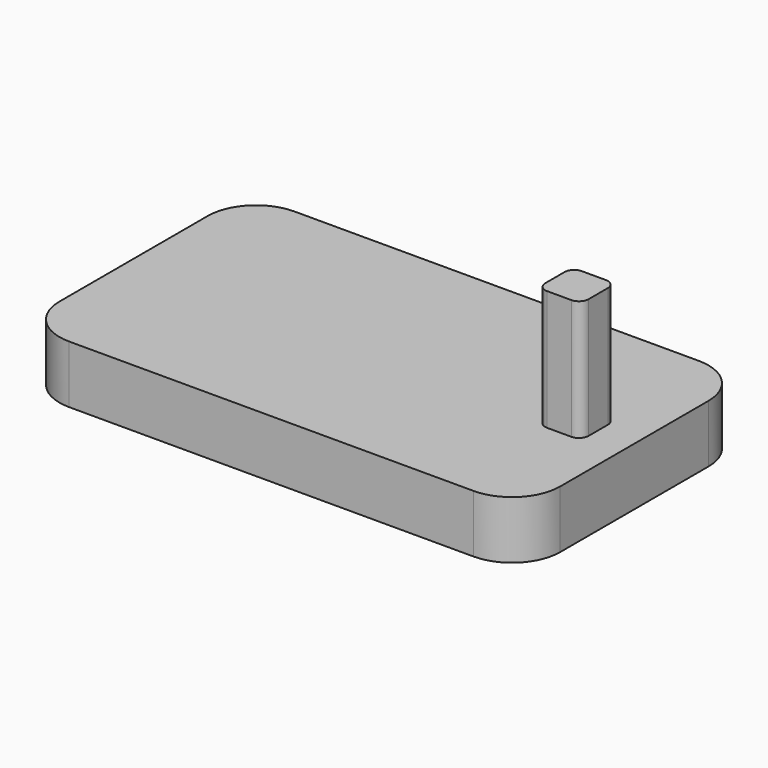
from build123d import *

# Parameters (mm, degrees)
F1_DEPTH = 12
F3_DEPTH = 25


with BuildPart() as f1:
    # F0 (on Top) → F1 (new body)
    with BuildSketch(Plane.XY):
        with BuildLine():
            Line((42, 29.25), (-42, 29.25))
            ThreePointArc((-42, 29.25), (-49.071068, 26.321068), (-52, 19.25))
            Line((-52, 19.25), (-52, -19.25))
            ThreePointArc((-52, -19.25), (-49.071068, -26.321068), (-42, -29.25))
            Line((-42, -29.25), (42, -29.25))
            ThreePointArc((42, -29.25), (49.071068, -26.321068), (52, -19.25))
            Line((52, -19.25), (52, 19.25))
            ThreePointArc((52, 19.25), (49.071068, 26.321068), (42, 29.25))
        make_face()
    extrude(amount=F1_DEPTH)

    # F2 (on face) → F3 (join)
    with BuildSketch(Plane.XY.offset(12)):
        with BuildLine():
            Line((42.5, 4.5), (37.5, 4.5))
            ThreePointArc((37.5, 4.5), (36.085786, 3.914214), (35.5, 2.5))
            Line((35.5, 2.5), (35.5, -2.5))
            ThreePointArc((35.5, -2.5), (36.085786, -3.914214), (37.5, -4.5))
            Line((37.5, -4.5), (42.5, -4.5))
            ThreePointArc((42.5, -4.5), (43.914214, -3.914214), (44.5, -2.5))
            Line((44.5, -2.5), (44.5, 2.5))
            ThreePointArc((44.5, 2.5), (43.914214, 3.914214), (42.5, 4.5))
        make_face()
    extrude(amount=F3_DEPTH)


solid = f1.part
